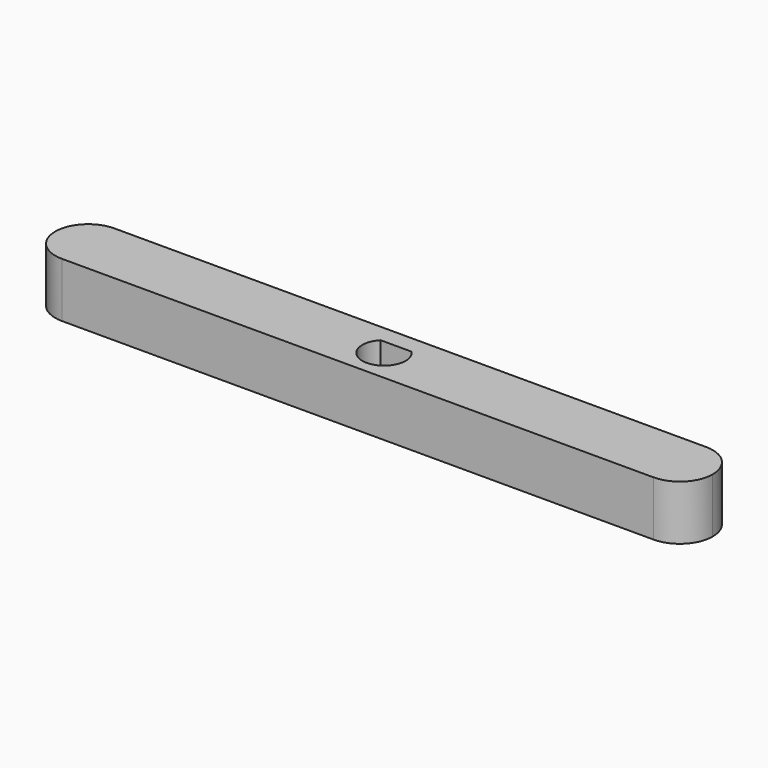
from build123d import *

# Parameters (mm, degrees)
F1_DEPTH = 5


with BuildPart() as f1:
    # F0 (on Top) → F1 (new body)
    with BuildSketch(Plane.XY):
        with BuildLine():
            Line((-27, -3), (27, -3))
            ThreePointArc((27, -3), (29.12132, -2.12132), (30, 0))
            ThreePointArc((30, 0), (29.12132, 2.12132), (27, 3))
            Line((27, 3), (-27, 3))
            ThreePointArc((-27, 3), (-29.12132, 2.12132), (-30, 0))
            ThreePointArc((-30, 0), (-29.12132, -2.12132), (-27, -3))
        make_face()
        with BuildLine():
            ThreePointArc((1.417745, 1.375), (0, -1.975), (-1.417745, 1.375))
            Line((-1.417745, 1.375), (1.417745, 1.375))
        make_face(mode=Mode.SUBTRACT)
    extrude(amount=F1_DEPTH)


solid = f1.part
